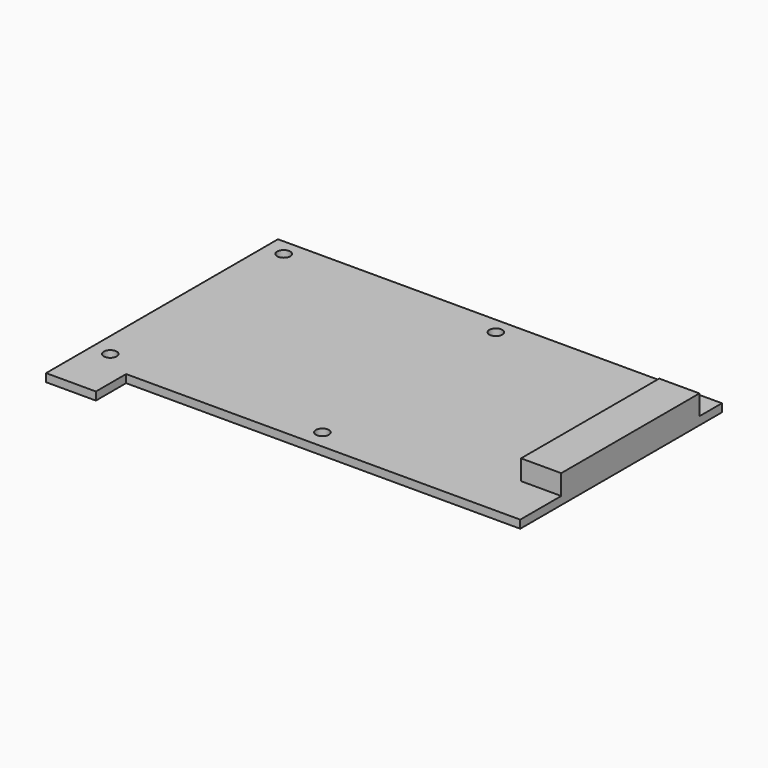
from build123d import *

# Parameters (mm, degrees)
F0_W     = 110.5
F0_H     = 62.75
F1_DEPTH = 2
F2_W     = 12.4
F2_H     = 9.4
F3_DEPTH = 2
F4_R     = 1.625
F5_DEPTH = 2.001
F6_W     = 10
F6_H     = 43
F7_DEPTH = 5


with BuildPart() as f1:
    # F0 (on Top) → F1 (new body)
    with BuildSketch(Plane.XY):
        Rectangle(F0_W, F0_H)
    extrude(amount=F1_DEPTH)

    # F2 (on Top) → F3 (join, through all)
    with BuildSketch(Plane.XY):
        with Locations((-49.05, -36.075)):
            Rectangle(F2_W, F2_H)
    extrude(amount=F3_DEPTH)

    # F4 (on face) → F5 (cut, through all)
    with BuildSketch(Plane.XY.offset(2)):
        with Locations((-50.525, 27.25)):
            Circle(F4_R)
        with Locations((2.275, 27.25)):
            Circle(F4_R)
        with Locations((2.275, -26.7)):
            Circle(F4_R)
        with Locations((-50.525, -26.7)):
            Circle(F4_R)
    extrude(amount=-F5_DEPTH, mode=Mode.SUBTRACT)

    # F6 (on face) → F7 (join)
    with BuildSketch(Plane.XY.offset(2)):
        with Locations((50.25, 2.875)):
            Rectangle(F6_W, F6_H)
    extrude(amount=F7_DEPTH)


solid = f1.part
